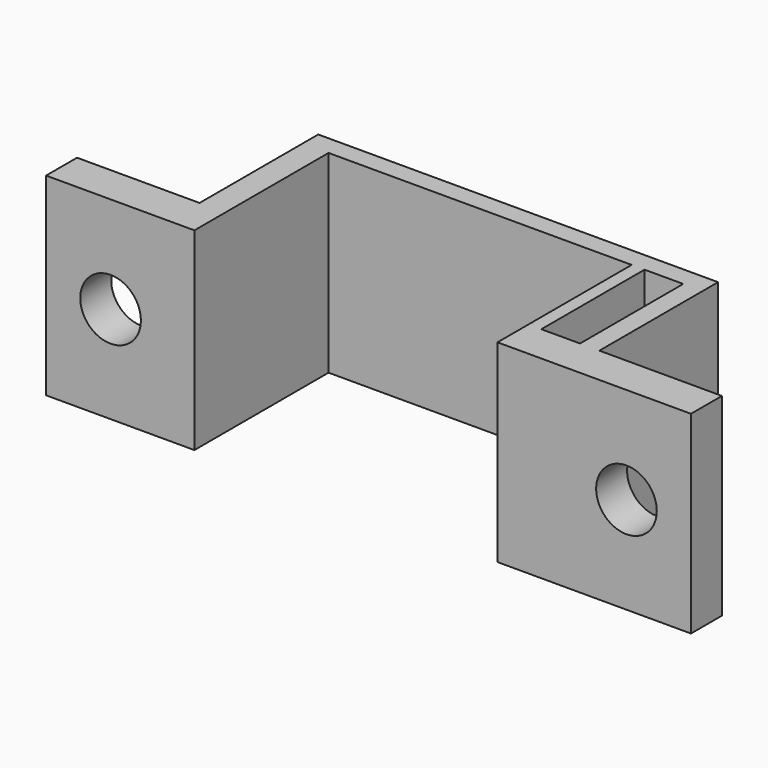
from build123d import *

# Parameters (mm, degrees)
SKETCH001_AS_DRAWN_R                 = 2.35
EXTRUDE001_DEPTH                     = 5
EXTRUDE001_ONTO_SKETCH001_ROLL_ANGLE = 90
SKETCH_W                             = 3
SKETCH_H                             = 10
EXTRUDE_DEPTH                        = 15


with BuildPart() as extrude001:
    # Sketch001 as drawn → Extrude001 (new)
    with BuildSketch(Plane.XY):
        with Locations((-20, 7.5)):
            Circle(SKETCH001_AS_DRAWN_R)
        with Locations((20, 7.5)):
            Circle(SKETCH001_AS_DRAWN_R)
    extrude(amount=-EXTRUDE001_DEPTH)


with BuildPart() as extrude001_1:
    # Extrude001 onto Sketch001 roll: moved
    add(extrude001.part.rotate(Axis((0, 0, 0), (1, 0, 0)), EXTRUDE001_ONTO_SKETCH001_ROLL_ANGLE))


with BuildPart() as extrude001_2:
    # Extrude001 onto Sketch001 placement: moved
    add(extrude001_1.part)


with BuildPart() as cut:
    # Sketch → Extrude (new body)
    with BuildSketch(Plane.XY):
        Polygon((-25, 0), (-13.5, 0), (-13.5, 13), (10, 13), (10, 0), (25, 0), (25, 3), (15.5, 3), (15.5, 14.5), (-15.5, 14.5), (-15.5, 3), (-25, 3), align=None)
        with Locations((12.5, 8)):
            Rectangle(SKETCH_W, SKETCH_H, mode=Mode.SUBTRACT)
    extrude(amount=EXTRUDE_DEPTH)

    # Cut: cut Extrude001
    add(extrude001_2.part, mode=Mode.SUBTRACT)


solid = cut.part
